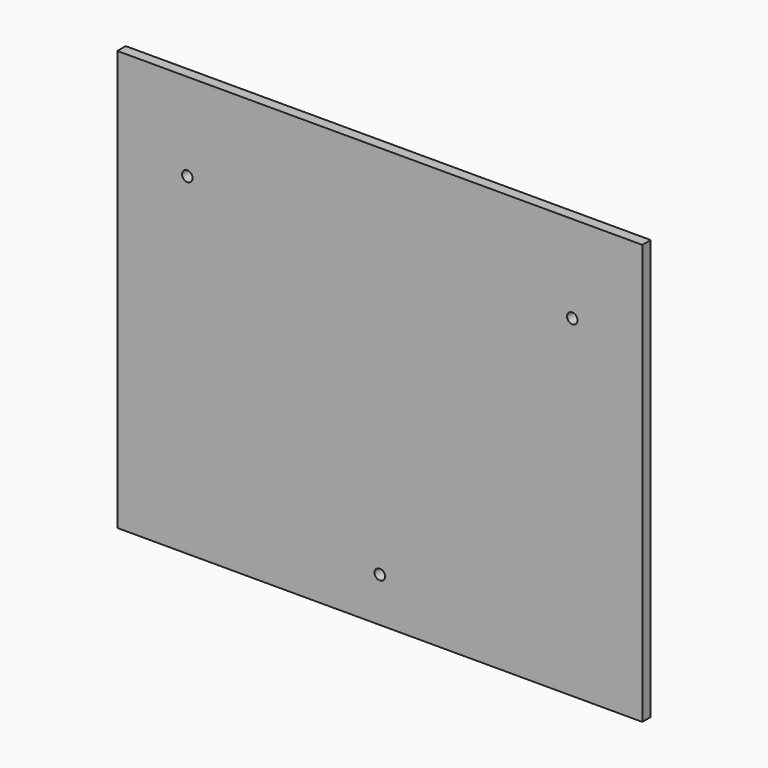
from build123d import *

# Parameters (mm, degrees)
F0_W     = 150
F0_H     = 120
F0_R     = 1.5
F1_DEPTH = 3


with BuildPart() as f1:
    # F0 (on Front) → F1 (new body)
    with BuildSketch(Plane.XZ):
        Rectangle(F0_W, F0_H)
        with Locations((0, -47.316463)):
            Circle(F0_R, mode=Mode.SUBTRACT)
        with Locations((-55, 35)):
            Circle(F0_R, mode=Mode.SUBTRACT)
        with Locations((55, 35)):
            Circle(F0_R, mode=Mode.SUBTRACT)
    extrude(amount=F1_DEPTH)


solid = f1.part
